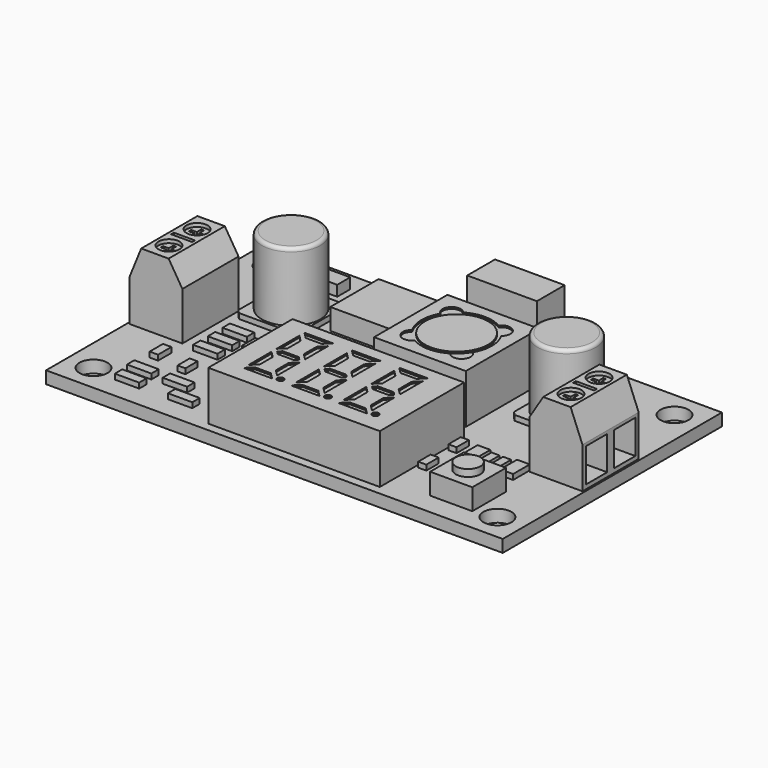
from build123d import *

# Parameters (mm, degrees)
SKETCH_W            = 65
SKETCH_H            = 39
PAD_DEPTH           = 1.75
SKETCH001_R         = 2
POCKET_DEPTH        = 1.75
SKETCH002_W         = 24.417
SKETCH002_H         = 15
PAD001_DEPTH        = 7
SKETCH003_W         = 13.058
SKETCH003_H         = 13.058
PAD002_DEPTH        = 7
SKETCH004_R         = 4.155
PAD003_DEPTH        = 10.5
SKETCH005_W         = 9.913
SKETCH005_H         = 4.939
PAD004_DEPTH        = 9.5
SKETCH006_W         = 7.55
SKETCH006_H         = 10
PAD005_DEPTH        = 10
POCKET001_DEPTH     = 10
SKETCH008_W         = 3.8
SKETCH008_H         = 4.8
POCKET002_DEPTH     = 5
SKETCH009_R         = 1.5
SKETCH009_W         = 3
SKETCH009_H         = 0.5
POCKET003_DEPTH     = 0.5
POCKET004_DEPTH     = 0.5
SKETCH011_W         = 4.406
SKETCH011_H         = 2.315
PAD006_DEPTH        = 1.5
SKETCH012_W         = 9.983
SKETCH012_H         = 8.61
PAD007_DEPTH        = 3
SKETCH013_W         = 1.195
SKETCH013_H         = 2.37
SKETCH013_W_2       = 1.119
SKETCH013_H_2       = 2.16
SKETCH013_W_3       = 1.946
SKETCH013_H_3       = 2.967
SKETCH013_W_4       = 3.47
SKETCH013_H_4       = 1.321
SKETCH013_W_5       = 1.151
SKETCH013_H_5       = 2.203
SKETCH013_W_6       = 1.815
SKETCH013_H_6       = 2.968
SKETCH013_W_7       = 1.321
SKETCH013_H_7       = 3.098
SKETCH013_W_8       = 1.091
SKETCH013_H_8       = 1.638
SKETCH013_W_9       = 1.281
SKETCH013_H_9       = 2.895
SKETCH013_W_10      = 1.995
SKETCH013_H_10      = 1.119
PAD008_DEPTH        = 0.75
SKETCH014_W         = 6
SKETCH014_H         = 6
PAD009_DEPTH        = 3
SKETCH015_R         = 1.75
PAD010_DEPTH        = 1
FILLET_R            = 0.5
SKETCH016_R         = 4.5
POCKET005_DEPTH     = 0.25
SKETCH017_R         = 0.45
POCKET006_DEPTH     = 0.25
LINEARPATTERN_COUNT = 3
LINEARPATTERN_PITCH = 6.75


with BuildPart() as part:
    # Sketch → Pad (new body)
    with BuildSketch(Plane.XY):
        Rectangle(SKETCH_W, SKETCH_H)
    extrude(amount=PAD_DEPTH)

    # Sketch001 (on Face6 of Pad) → Pocket (cut)
    with BuildSketch(Plane.XY.offset(1.75)):
        with Locations((28.75, -15.75)):
            Circle(SKETCH001_R)
        with Locations((28.75, 15.75)):
            Circle(SKETCH001_R)
        with Locations((-28.75, -15.75)):
            Circle(SKETCH001_R)
        with Locations((-28.75, 15.75)):
            Circle(SKETCH001_R)
    extrude(amount=-POCKET_DEPTH, mode=Mode.SUBTRACT)

    # Sketch002 (on Face5 of Pocket) → Pad001 (join)
    with BuildSketch(Plane.XY.offset(1.75)):
        with Locations((1.8035, -10.763)):
            Rectangle(SKETCH002_W, SKETCH002_H)
    extrude(amount=PAD001_DEPTH)

    # Sketch003 (on Face5 of Pad001) → Pad002 (join)
    with BuildSketch(Plane.XY.offset(1.75)):
        with Locations((5.917, 5.524)):
            Rectangle(SKETCH003_W, SKETCH003_H)
    extrude(amount=PAD002_DEPTH)

    # Sketch004 (on Face5 of Pad002) → Pad003 (join)
    with BuildSketch(Plane.XY.offset(1.75)):
        with Locations((-19.621, 7.988)):
            Circle(SKETCH004_R)
        with Locations((19.621, 7.988)):
            Circle(SKETCH004_R)
    extrude(amount=PAD003_DEPTH)

    # Sketch005 (on Face5 of Pad003) → Pad004 (join)
    with BuildSketch(Plane.XY.offset(1.75)):
        with Locations((6.1525, 15.7865)):
            Rectangle(SKETCH005_W, SKETCH005_H)
    extrude(amount=PAD004_DEPTH)

    # Sketch006 (on Face5 of Pad004) → Pad005 (join)
    with BuildSketch(Plane.XY.offset(1.75)):
        with Locations((28.475, 0)):
            Rectangle(SKETCH006_W, SKETCH006_H)
    pad005 = extrude(amount=PAD005_DEPTH)

    # Sketch007 (on Face22 of Pad005) → Pocket001 (cut)
    with BuildSketch(Plane.XZ.offset(5)):
        Polygon((32.25, 7.588), (30.561135, 11.75), (32.25, 11.75), align=None)
        Polygon((24.7, 11.75), (24.7, 8.588), (26.661135, 11.75), align=None)
    pocket001 = extrude(amount=-POCKET001_DEPTH, mode=Mode.SUBTRACT)

    # Sketch008 (on Face23 of Pocket001) → Pocket002 (cut)
    with BuildSketch(Plane.YZ.offset(32.25)):
        with Locations((-2.5, 4.75)):
            Rectangle(SKETCH008_W, SKETCH008_H)
        with Locations((2.5, 4.75)):
            Rectangle(SKETCH008_W, SKETCH008_H)
    pocket002 = extrude(amount=-POCKET002_DEPTH, mode=Mode.SUBTRACT)

    # Sketch009 (on Face33 of Pocket002) → Pocket003 (cut)
    with BuildSketch(Plane.XY.offset(11.75)):
        with Locations((28.611135, 2.5)):
            Circle(SKETCH009_R)
        with Locations((28.611135, -2.5)):
            Circle(SKETCH009_R)
        with Locations((28.611135, 0)):
            Rectangle(SKETCH009_W, SKETCH009_H)
    pocket003 = extrude(amount=-POCKET003_DEPTH, mode=Mode.SUBTRACT)

    # Sketch010 (on Face55 of Pocket003) → Pocket004 (cut)
    with BuildSketch(Plane.XY.offset(11.25)):
        Polygon((28.411135, 3.5), (28.411135, 2.7), (27.611135, 2.7), (27.611135, 2.3), (28.411135, 2.3), (28.411135, 1.5), (28.811135, 1.5), (28.811135, 2.3), (29.611135, 2.3), (29.611135, 2.7), (28.811135, 2.7), (28.811135, 3.5), align=None)
        Polygon((28.411135, -3.5), (28.411135, -2.7), (27.611135, -2.7), (27.611135, -2.3), (28.411135, -2.3), (28.411135, -1.5), (28.811135, -1.5), (28.811135, -2.3), (29.611135, -2.3), (29.611135, -2.7), (28.811135, -2.7), (28.811135, -3.5), align=None)
    pocket004 = extrude(amount=-POCKET004_DEPTH, mode=Mode.SUBTRACT)

    # Mirrored: Pad005, Pocket001, Pocket002, Pocket003, Pocket004 across Sketch006 V_Axis
    add(pad005.mirror(Plane(origin=(0, 0, 1.75), x_dir=(0, 0, 1), z_dir=(1, 0, 0))))
    add(pocket001.mirror(Plane(origin=(0, 0, 1.75), x_dir=(0, 0, 1), z_dir=(1, 0, 0))), mode=Mode.SUBTRACT)
    add(pocket002.mirror(Plane(origin=(0, 0, 1.75), x_dir=(0, 0, 1), z_dir=(1, 0, 0))), mode=Mode.SUBTRACT)
    add(pocket003.mirror(Plane(origin=(0, 0, 1.75), x_dir=(0, 0, 1), z_dir=(1, 0, 0))), mode=Mode.SUBTRACT)
    add(pocket004.mirror(Plane(origin=(0, 0, 1.75), x_dir=(0, 0, 1), z_dir=(1, 0, 0))), mode=Mode.SUBTRACT)

    # Sketch011 (on Face5 of Pocket004) → Pad006 (join)
    with BuildSketch(Plane.XY.offset(1.75)):
        with Locations((-20.488, 15.691)):
            Rectangle(SKETCH011_W, SKETCH011_H)
        with Locations((-15.201, -2.315)):
            Rectangle(SKETCH011_W, SKETCH011_H)
        with Locations((-6.711, 0)):
            Rectangle(SKETCH011_W, SKETCH011_H)
    extrude(amount=PAD006_DEPTH)

    # Sketch012 (on Face5 of Pad006) → Pad007 (join)
    with BuildSketch(Plane.XY.offset(1.75)):
        with Locations((-8.7645, 11.94)):
            Rectangle(SKETCH012_W, SKETCH012_H)
    extrude(amount=PAD007_DEPTH)

    # Sketch013 (on Face5 of Pad007) → Pad008 (join)
    with BuildSketch(Plane.XY.offset(1.75)):
        with Locations((-24.8265, -8.728)):
            Rectangle(SKETCH013_W, SKETCH013_H)
        with Locations((-20.3615, -9.499)):
            Rectangle(SKETCH013_W_2, SKETCH013_H_2)
        with Locations((-14.989, -9.2035)):
            Rectangle(SKETCH013_W_3, SKETCH013_H_3)
        with Locations((-23.7135, -13.2655)):
            Rectangle(SKETCH013_W_4, SKETCH013_H_4)
        with Locations((-18.6265, -13.2655)):
            Rectangle(SKETCH013_W_4, SKETCH013_H_4)
        with Locations((-23.3995, -15.8195)):
            Rectangle(SKETCH013_W_4, SKETCH013_H_4)
        with Locations((-15.8375, -15.8195)):
            Rectangle(SKETCH013_W_4, SKETCH013_H_4)
        with Locations((15.0165, -5.4865)):
            Rectangle(SKETCH013_W_5, SKETCH013_H_5)
        with Locations((15.0165, -10.8585)):
            Rectangle(SKETCH013_W_5, SKETCH013_H_5)
        with Locations((18.0155, -6.213)):
            Rectangle(SKETCH013_W_6, SKETCH013_H_6)
        with Locations((19.9955, -6.2465)):
            Rectangle(SKETCH013_W_5, SKETCH013_H_5)
        with Locations((21.6435, -6.2465)):
            Rectangle(SKETCH013_W_5, SKETCH013_H_5)
        with Locations((23.6235, -6.213)):
            Rectangle(SKETCH013_W_6, SKETCH013_H_6)
        with Locations((-1.1005, 14.873)):
            Rectangle(SKETCH013_W_7, SKETCH013_H_7)
        with Locations((12.0315, 16.248)):
            Rectangle(SKETCH013_W_8, SKETCH013_H_8)
        with Locations((14.7135, 15.9755)):
            Rectangle(SKETCH013_W_9, SKETCH013_H_9)
        with Locations((-11.5185, -6.297)):
            Rectangle(SKETCH013_W_10, SKETCH013_H_10)
        with Locations((-11.5185, -7.72)):
            Rectangle(SKETCH013_W_10, SKETCH013_H_10)
        with Locations((-20.947, 0.2815)):
            Rectangle(SKETCH013_W_4, SKETCH013_H_4)
        with Locations((-20.947, -2.3395)):
            Rectangle(SKETCH013_W_4, SKETCH013_H_4)
        with Locations((-20.947, -4.9605)):
            Rectangle(SKETCH013_W_4, SKETCH013_H_4)
        Polygon((-23.971, 12.533), (-15.271, 12.533), (-15.271, 4.033), (-15.771, 3.533), (-23.471, 3.533), (-23.971, 4.033), align=None)
        Polygon((23.971, 12.533), (15.271, 12.533), (15.271, 4.033), (15.771, 3.533), (23.471, 3.533), (23.971, 4.033), align=None)
    extrude(amount=PAD008_DEPTH)

    # Sketch014 (on Face5 of Pad008) → Pad009 (join)
    with BuildSketch(Plane.XY.offset(1.75)):
        with Locations((22.686, -13.396)):
            Rectangle(SKETCH014_W, SKETCH014_H)
    extrude(amount=PAD009_DEPTH)

    # Sketch015 (on Face161 of Pad009) → Pad010 (join)
    with BuildSketch(Plane.XY.offset(4.75)):
        with Locations((22.686, -13.396)):
            Circle(SKETCH015_R)
    extrude(amount=PAD010_DEPTH)

    # Fillet
    fillet_edges = [part.edges().sort_by_distance(p)[0] for p in [
        (-23.776, 7.988, 12.25),
        (15.466, 7.988, 12.25),
    ]]
    fillet(fillet_edges, radius=FILLET_R)

    # Sketch016 (on Face187 of Fillet) → Pocket005 (cut)
    with BuildSketch(Plane.XY.offset(8.75)):
        with BuildLine():
            ThreePointArc((3.399325, 9.843874), (1.472834, 9.968166), (1.597126, 8.041675))
            ThreePointArc((1.597126, 8.041675), (0.917, 5.524), (1.597126, 3.006325))
            ThreePointArc((1.597126, 3.006325), (1.472834, 1.079834), (3.399325, 1.204126))
            ThreePointArc((3.399325, 1.204126), (5.917, 0.524), (8.434675, 1.204126))
            ThreePointArc((8.434675, 1.204126), (10.361166, 1.079834), (10.236874, 3.006325))
            ThreePointArc((10.236874, 3.006325), (10.917, 5.524), (10.236874, 8.041675))
            ThreePointArc((10.236874, 8.041675), (10.361166, 9.968166), (8.434675, 9.843874))
            ThreePointArc((8.434675, 9.843874), (5.917, 10.524), (3.399325, 9.843874))
        make_face()
        with Locations((5.917, 5.524)):
            Circle(SKETCH016_R, mode=Mode.SUBTRACT)
    extrude(amount=-POCKET005_DEPTH, mode=Mode.SUBTRACT)

    # Sketch017 (on Face163 of Pocket005) → Pocket006 (cut)
    with BuildSketch(Plane.XY.offset(8.75)):
        with Locations((-2.407, -15.39)):
            Circle(SKETCH017_R)
        Polygon((-7.327, -5.9), (-7.327, -9.97), (-6.427, -9.07), (-6.427, -6.8), align=None)
        Polygon((-7.327, -5), (-6.427, -5.9), (-4.157, -5.9), (-3.257, -5), align=None)
        Polygon((-3.257, -5.9), (-4.157, -6.8), (-4.157, -9.07), (-3.257, -9.97), align=None)
        Polygon((-6.877, -10.42), (-6.427, -9.97), (-4.157, -9.97), (-3.707, -10.42), (-4.157, -10.87), (-6.427, -10.87), align=None)
        Polygon((-7.327, -10.87), (-7.327, -14.94), (-6.427, -14.04), (-6.427, -11.77), align=None)
        Polygon((-7.327, -15.84), (-6.427, -14.94), (-4.157, -14.94), (-3.257, -15.84), align=None)
        Polygon((-4.157, -11.77), (-4.157, -14.04), (-3.257, -14.94), (-3.257, -10.87), align=None)
    pocket006 = extrude(amount=-POCKET006_DEPTH, mode=Mode.SUBTRACT)

    # LinearPattern: Pocket006 ×3
    with Locations(*[(i * LINEARPATTERN_PITCH, 0, 0) for i in range(1, LINEARPATTERN_COUNT)]):
        add(pocket006, mode=Mode.SUBTRACT)


solid = part.part
